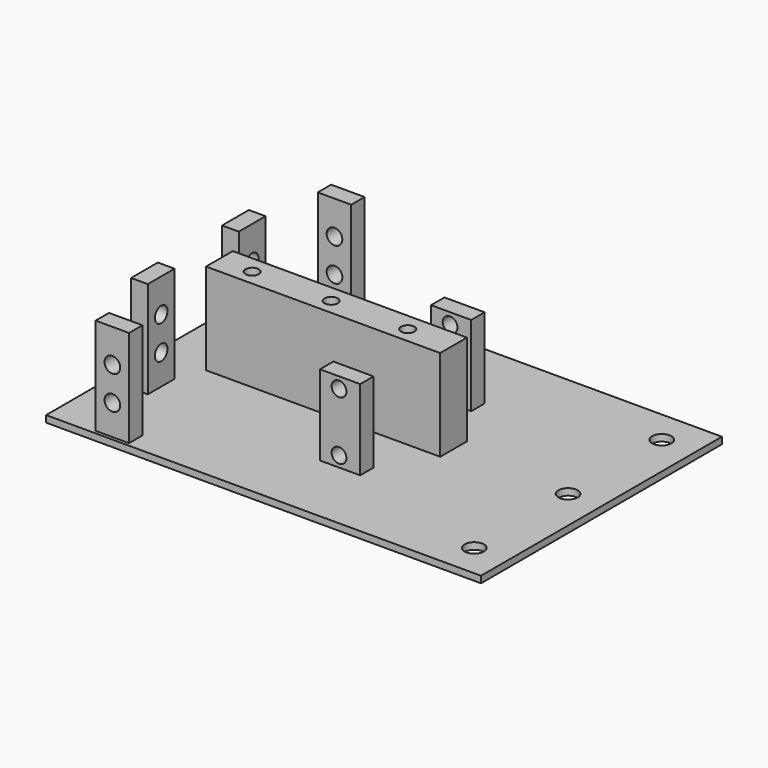
from build123d import *

# Parameters (mm, degrees)
SKETCH169_R                = 2.34
EXTRUDE089_DEPTH           = 20
SKETCH168_W                = 10
SKETCH168_H                = 30
EXTRUDE088_DEPTH           = 5
EXTRUDE088_PLACEMENT_ANGLE = 90
CUT055_PLACEMENT_ANGLE     = 90
SKETCH165_R                = 2.34
EXTRUDE085_DEPTH           = 20
SKETCH164_W                = 10
SKETCH164_H                = 30
EXTRUDE084_DEPTH           = 5
EXTRUDE084_PLACEMENT_ANGLE = 90
SKETCH082_R                = 2.21
EXTRUDE103_DEPTH           = 10
SKETCH081_R                = 2.21
EXTRUDE102_DEPTH           = 10
SKETCH080_W                = 12
SKETCH080_H                = 26.01178
EXTRUDE101_DEPTH           = 5
SKETCH079_R                = 2.21
EXTRUDE100_DEPTH           = 10
SKETCH078_R                = 2.21
EXTRUDE099_DEPTH           = 10
SKETCH077_W                = 12
SKETCH077_H                = 26.01178
EXTRUDE098_DEPTH           = 5
SKETCH167_R                = 2.34
EXTRUDE087_DEPTH           = 20
SKETCH166_W                = 10
SKETCH166_H                = 30
EXTRUDE086_DEPTH           = 5
EXTRUDE086_PLACEMENT_ANGLE = 90
CUT052_PLACEMENT_ANGLE     = 90
SKETCH163_R                = 2.34
EXTRUDE083_DEPTH           = 20
SKETCH162_W                = 10
SKETCH162_H                = 30
EXTRUDE082_DEPTH           = 5
EXTRUDE082_PLACEMENT_ANGLE = 90
SKETCH016_R                = 2.005
EXTRUDE077_DEPTH           = 20
EXTRUDE076_DEPTH           = 20
EXTRUDE075_DEPTH           = 20
SKETCH161_W                = 10
SKETCH161_H                = 27.36
EXTRUDE182_DEPTH           = 70
SKETCH075_R                = 2.9
EXTRUDE091_DEPTH           = 50
SKETCH074_W                = 130
SKETCH074_H                = 90
EXTRUDE090_DEPTH           = 2


with BuildPart() as tornillos050:
    # Sketch169 (on Face6 of Extrude088) → Extrude089 (new body)
    with BuildSketch(Plane(origin=(-101, -107, 0), x_dir=(0, -1, 0), z_dir=(-1, 0, 0))):
        with Locations((-135.006037, 30)):
            Circle(SKETCH169_R)
        with Locations((-135.008375, 20)):
            Circle(SKETCH169_R)
    extrude(amount=EXTRUDE089_DEPTH)


with BuildPart() as tornillos050_1:
    # Extrude089 placement: moved
    add(tornillos050.part.moved(Location((17, 0, 0))))


with BuildPart() as soporte016:
    # Sketch168 → Extrude088 (new body)
    with BuildSketch(Plane.XZ):
        with Locations((-135, 25)):
            Rectangle(SKETCH168_W, SKETCH168_H)
    extrude(amount=EXTRUDE088_DEPTH)


with BuildPart() as soporte016_1:
    # Extrude088 placement: moved
    add(soporte016.part.moved(Location((-96, -107, 0))).rotate(Axis((-96, -107, 0), (0, 0, -1)), EXTRUDE088_PLACEMENT_ANGLE))

    # Cut055: cut Tornillos050
    add(tornillos050_1.part, mode=Mode.SUBTRACT)


with BuildPart() as soporte016_2:
    # Cut055 placement: moved
    add(soporte016_1.part.moved(Location((-119, -12, -3))).rotate(Axis((-119, -12, -3), (0, 0, -1)), CUT055_PLACEMENT_ANGLE))


with BuildPart() as tornillos048:
    # Sketch165 (on Face6 of Extrude084) → Extrude085 (new body)
    with BuildSketch(Plane(origin=(-101, -107, 0), x_dir=(0, -1, 0), z_dir=(-1, 0, 0))):
        with Locations((-135.006037, 30)):
            Circle(SKETCH165_R)
        with Locations((-135.008375, 20)):
            Circle(SKETCH165_R)
    extrude(amount=EXTRUDE085_DEPTH)


with BuildPart() as tornillos048_1:
    # Extrude085 placement: moved
    add(tornillos048.part.moved(Location((17, 0, 0))))


with BuildPart() as soporte015:
    # Sketch164 → Extrude084 (new body)
    with BuildSketch(Plane.XZ):
        with Locations((-135, 25)):
            Rectangle(SKETCH164_W, SKETCH164_H)
    extrude(amount=EXTRUDE084_DEPTH)


with BuildPart() as soporte015_1:
    # Extrude084 placement: moved
    add(soporte015.part.moved(Location((-96, -107, 0))).rotate(Axis((-96, -107, 0), (0, 0, -1)), EXTRUDE084_PLACEMENT_ANGLE))

    # Cut054: cut Tornillos048
    add(tornillos048_1.part, mode=Mode.SUBTRACT)


with BuildPart() as soporte015_2:
    # Cut054 placement: moved
    add(soporte015_1.part.moved(Location((-2, 34, -3))))


with BuildPart() as extrude103:
    # Sketch082 → Extrude103 (new body)
    with BuildSketch(Plane.XZ):
        with Locations((-30.242167, 20.01615)):
            Circle(SKETCH082_R)
    extrude(amount=EXTRUDE103_DEPTH)


with BuildPart() as extrude103_1:
    # Extrude103 placement: moved
    add(extrude103.part.moved(Location((-9.8, 5, -14.82))))


with BuildPart() as extrude102:
    # Sketch081 → Extrude102 (new body)
    with BuildSketch(Plane.XZ):
        with Locations((-30.242167, 20.01615)):
            Circle(SKETCH081_R)
    extrude(amount=EXTRUDE102_DEPTH)


with BuildPart() as extrude102_1:
    # Extrude102 placement: moved
    add(extrude102.part.moved(Location((-9.8, 3, 2.68))))


with BuildPart() as cut059:
    # Sketch080 → Extrude101 (new body)
    with BuildSketch(Plane.XZ):
        with Locations((-39.733391, 13.00589)):
            Rectangle(SKETCH080_W, SKETCH080_H)
    extrude(amount=EXTRUDE101_DEPTH)

    # Cut058: cut Extrude102
    add(extrude102_1.part, mode=Mode.SUBTRACT)

    # Cut059: cut Extrude103
    add(extrude103_1.part, mode=Mode.SUBTRACT)


with BuildPart() as cut059_1:
    # Cut059 placement: moved
    add(cut059.part.moved(Location((0, 68.5, 6))))


with BuildPart() as extrude100:
    # Sketch079 → Extrude100 (new body)
    with BuildSketch(Plane.XZ):
        with Locations((-30.242167, 20.01615)):
            Circle(SKETCH079_R)
    extrude(amount=EXTRUDE100_DEPTH)


with BuildPart() as extrude100_1:
    # Extrude100 placement: moved
    add(extrude100.part.moved(Location((-9.8, 5, -14.82))))


with BuildPart() as extrude099:
    # Sketch078 → Extrude099 (new body)
    with BuildSketch(Plane.XZ):
        with Locations((-30.242167, 20.01615)):
            Circle(SKETCH078_R)
    extrude(amount=EXTRUDE099_DEPTH)


with BuildPart() as extrude099_1:
    # Extrude099 placement: moved
    add(extrude099.part.moved(Location((-9.8, 3, 2.68))))


with BuildPart() as cut057:
    # Sketch077 → Extrude098 (new body)
    with BuildSketch(Plane.XZ):
        with Locations((-39.733391, 13.00589)):
            Rectangle(SKETCH077_W, SKETCH077_H)
    extrude(amount=EXTRUDE098_DEPTH)

    # Cut056: cut Extrude099
    add(extrude099_1.part, mode=Mode.SUBTRACT)

    # Cut057: cut Extrude100
    add(extrude100_1.part, mode=Mode.SUBTRACT)


with BuildPart() as cut057_1:
    # Cut057 placement: moved
    add(cut057.part.moved(Location((0, 27, 6))))


with BuildPart() as tornillos049:
    # Sketch167 (on Face6 of Extrude086) → Extrude087 (new body)
    with BuildSketch(Plane(origin=(-101, -107, 0), x_dir=(0, -1, 0), z_dir=(-1, 0, 0))):
        with Locations((-135.006037, 30)):
            Circle(SKETCH167_R)
        with Locations((-135.008375, 20)):
            Circle(SKETCH167_R)
    extrude(amount=EXTRUDE087_DEPTH)


with BuildPart() as tornillos049_1:
    # Extrude087 placement: moved
    add(tornillos049.part.moved(Location((17, 0, 0))))


with BuildPart() as soporte013:
    # Sketch166 → Extrude086 (new body)
    with BuildSketch(Plane.XZ):
        with Locations((-135, 25)):
            Rectangle(SKETCH166_W, SKETCH166_H)
    extrude(amount=EXTRUDE086_DEPTH)


with BuildPart() as soporte013_1:
    # Extrude086 placement: moved
    add(soporte013.part.moved(Location((-96, -107, 0))).rotate(Axis((-96, -107, 0), (0, 0, -1)), EXTRUDE086_PLACEMENT_ANGLE))

    # Cut052: cut Tornillos049
    add(tornillos049_1.part, mode=Mode.SUBTRACT)


with BuildPart() as soporte013_2:
    # Cut052 placement: moved
    add(soporte013_1.part.moved(Location((-119, -95, -3))).rotate(Axis((-119, -95, -3), (0, 0, -1)), CUT052_PLACEMENT_ANGLE))


with BuildPart() as tornillos047:
    # Sketch163 (on Face6 of Extrude082) → Extrude083 (new body)
    with BuildSketch(Plane(origin=(-101, -107, 0), x_dir=(0, -1, 0), z_dir=(-1, 0, 0))):
        with Locations((-135.006037, 30)):
            Circle(SKETCH163_R)
        with Locations((-135.008375, 20)):
            Circle(SKETCH163_R)
    extrude(amount=EXTRUDE083_DEPTH)


with BuildPart() as tornillos047_1:
    # Extrude083 placement: moved
    add(tornillos047.part.moved(Location((17, 0, 0))))


with BuildPart() as soporte014:
    # Sketch162 → Extrude082 (new body)
    with BuildSketch(Plane.XZ):
        with Locations((-135, 25)):
            Rectangle(SKETCH162_W, SKETCH162_H)
    extrude(amount=EXTRUDE082_DEPTH)


with BuildPart() as soporte014_1:
    # Extrude082 placement: moved
    add(soporte014.part.moved(Location((-96, -107, 0))).rotate(Axis((-96, -107, 0), (0, 0, -1)), EXTRUDE082_PLACEMENT_ANGLE))

    # Cut053: cut Tornillos047
    add(tornillos047_1.part, mode=Mode.SUBTRACT)


with BuildPart() as soporte014_2:
    # Cut053 placement: moved
    add(soporte014_1.part.moved(Location((-2, 0, -3))))


with BuildPart() as tornillo018:
    # Sketch016 → Extrude077 (new body)
    with BuildSketch(Plane.XY.offset(45.913223)):
        with Locations((-84.962639, 67.504814)):
            Circle(SKETCH016_R)
    extrude(amount=EXTRUDE077_DEPTH)


with BuildPart() as tornillo018_1:
    # Extrude077 placement: moved
    add(tornillo018.part.moved(Location((46.5, -21.8, -26))))


with BuildPart() as tornillo017:
    # Sketch016 → Extrude076 (new body)
    with BuildSketch(Plane.XY.offset(45.913223)):
        with Locations((-84.962639, 67.504814)):
            Circle(SKETCH016_R)
    extrude(amount=EXTRUDE076_DEPTH)


with BuildPart() as tornillo017_1:
    # Extrude076 placement: moved
    add(tornillo017.part.moved(Location((23.6, -21.8, -25.9))))


with BuildPart() as tornillo016:
    # Sketch016 → Extrude075 (new body)
    with BuildSketch(Plane.XY.offset(45.913223)):
        with Locations((-84.962639, 67.504814)):
            Circle(SKETCH016_R)
    extrude(amount=EXTRUDE075_DEPTH)


with BuildPart() as tornillo016_1:
    # Extrude075 placement: moved
    add(tornillo016.part.moved(Location((0, -21.8, -26))))


with BuildPart() as obj1:
    # Sketch161 → Extrude182 (new body)
    with BuildSketch(Plane.YZ):
        with Locations((-10.400922, 22.215275)):
            Rectangle(SKETCH161_W, SKETCH161_H)
    extrude(amount=EXTRUDE182_DEPTH)


with BuildPart() as obj1_1:
    # Extrude182 placement: moved
    add(obj1.part.moved(Location((-95, 56.4, -0.3))))

    # Cut107: cut Tornillo016
    add(tornillo016_1.part, mode=Mode.SUBTRACT)

    # Cut044: cut Tornillo017
    add(tornillo017_1.part, mode=Mode.SUBTRACT)

    # Cut045: cut Tornillo018
    add(tornillo018_1.part, mode=Mode.SUBTRACT)


with BuildPart() as obj1_2:
    # Cut045 placement: moved
    add(obj1_1.part.moved(Location((0, 0, -0.3))))


with BuildPart() as tornillos051:
    # Sketch075 (on Face6 of Extrude090) → Extrude091 (new body)
    with BuildSketch(Plane.XY.offset(2)):
        with Locations((120, 80.020506)):
            Circle(SKETCH075_R)
        with Locations((120, 45.010253)):
            Circle(SKETCH075_R)
        with Locations((120, 10)):
            Circle(SKETCH075_R)
    extrude(amount=EXTRUDE091_DEPTH)


with BuildPart() as tornillos051_1:
    # Extrude091 placement: moved
    add(tornillos051.part.moved(Location((0, 0, -31))))


with BuildPart() as obj2:
    # Sketch074 → Extrude090 (new body)
    with BuildSketch(Plane.XY):
        with Locations((65, 45)):
            Rectangle(SKETCH074_W, SKETCH074_H)
    extrude(amount=EXTRUDE090_DEPTH)

    # Cut047: cut Tornillos051
    add(tornillos051_1.part, mode=Mode.SUBTRACT)


with BuildPart() as obj2_1:
    # Cut047 placement: moved
    add(obj2.part.moved(Location((-110, 0, 6))))

    # Fusion059: union obj1
    add(obj1_2.part)

    # Fusion060: union Soporte014
    add(soporte014_2.part)

    # Fusion061: union Soporte013
    add(soporte013_2.part)

    # Fusion062: union Cut057
    add(cut057_1.part)

    # Fusion023: union Cut059
    add(cut059_1.part)

    # Fusion024: union Soporte015
    add(soporte015_2.part)

    # Fusion025: union Soporte016
    add(soporte016_2.part)


with BuildPart() as obj2_2:
    # Fusion025 placement: moved
    add(obj2_1.part.moved(Location((0, 0, 7.45))))


solid = obj2_2.part
